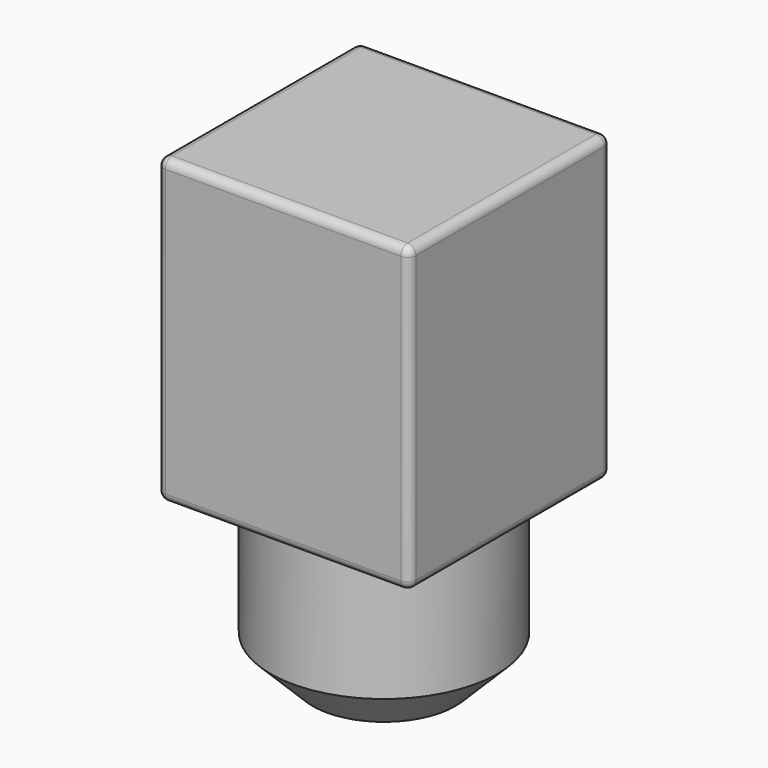
from build123d import *

# Parameters (mm, degrees)
F0_W     = 30
F0_H     = 30
F1_DEPTH = 36
F2_R     = 13.5
F3_DEPTH = 20
F4_SIZE  = 5
F5_R     = 1


with BuildPart() as f1:
    # F0 (on Top) → F1 (new body)
    with BuildSketch(Plane.XY):
        Rectangle(F0_W, F0_H)
    extrude(amount=F1_DEPTH)

    # F2 (on Top) → F3 (join)
    with BuildSketch(Plane.XY):
        Circle(F2_R)
    extrude(amount=-F3_DEPTH)

    # F4
    f4_edges = [f1.edges().sort_by_distance(p)[0] for p in [
        (-13.5, 0, -20),
    ]]
    chamfer(f4_edges, length=F4_SIZE)

    # F5
    f5_edges = [f1.edges().sort_by_distance(p)[0] for p in [
        (0, -15, 0),
        (-15, 0, 0),
        (0, 15, 0),
        (15, 0, 0),
        (15, -15, 18),
        (-15, -15, 18),
        (-15, 15, 18),
        (15, 15, 18),
        (0, -15, 36),
        (-15, 0, 36),
        (15, 0, 36),
        (0, 15, 36),
    ]]
    fillet(f5_edges, radius=F5_R)


solid = f1.part
